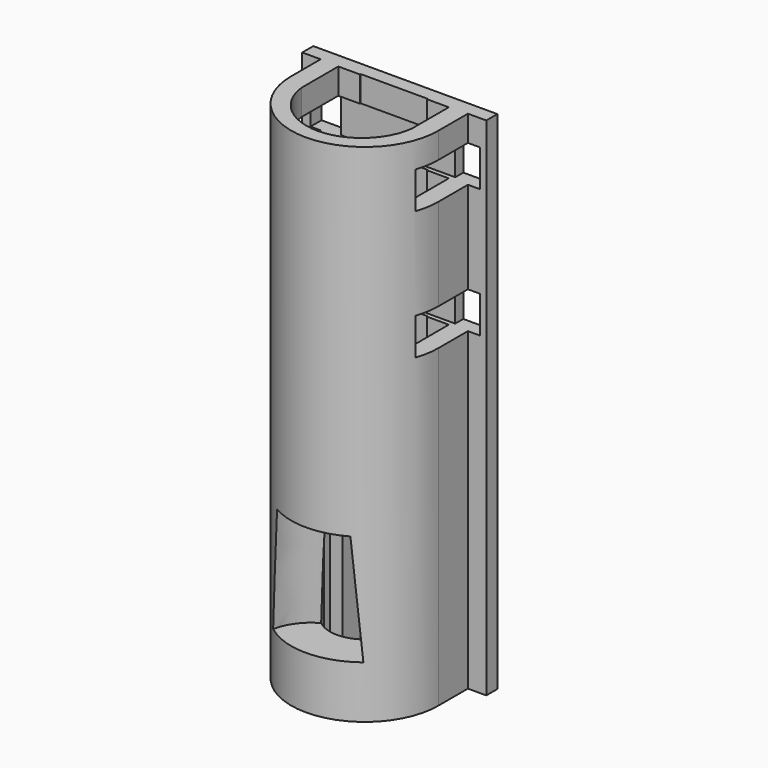
from build123d import *

# Parameters (mm, degrees)
BOX005_W     = 3
BOX005_H     = 10
BOX005_DEPTH = 4
BOX004_W     = 3
BOX004_H     = 10
BOX004_DEPTH = 4
BOX003_W     = 3
BOX003_H     = 10
BOX003_DEPTH = 4
BOX002_W     = 3
BOX002_H     = 10
BOX002_DEPTH = 4
BOX001_W     = 18.4
BOX001_H     = 7
BOX001_DEPTH = 4
BOX_W        = 18.4
BOX_H        = 7
BOX_DEPTH    = 4
PAD001_DEPTH = 34
PAD_DEPTH    = 55


with BuildPart() as obj1:
    # Box005 → Box005 (new body)
    with BuildSketch(Plane(origin=(6.3, -2.6, 34.2), x_dir=(1, 0, 0), z_dir=(0, 0, 1))):
        with Locations((1.5, 5)):
            Rectangle(BOX005_W, BOX005_H)
    extrude(amount=BOX005_DEPTH)


with BuildPart() as obj2:
    # Box004 → Box004 (new body)
    with BuildSketch(Plane(origin=(-9.1, -2.6, 34.2), x_dir=(1, 0, 0), z_dir=(0, 0, 1))):
        with Locations((1.5, 5)):
            Rectangle(BOX004_W, BOX004_H)
    extrude(amount=BOX004_DEPTH)


with BuildPart() as obj3:
    # Box003 → Box003 (new body)
    with BuildSketch(Plane(origin=(6.3, -2.6, 48.2), x_dir=(1, 0, 0), z_dir=(0, 0, 1))):
        with Locations((1.5, 5)):
            Rectangle(BOX003_W, BOX003_H)
    extrude(amount=BOX003_DEPTH)


with BuildPart() as obj4:
    # Box002 → Box002 (new body)
    with BuildSketch(Plane(origin=(-9.1, -2.6, 48.2), x_dir=(1, 0, 0), z_dir=(0, 0, 1))):
        with Locations((1.5, 5)):
            Rectangle(BOX002_W, BOX002_H)
    extrude(amount=BOX002_DEPTH)


with BuildPart() as obj5:
    # Box001 → Box001 (new body)
    with BuildSketch(Plane(origin=(-9.1, -2.6, 34.2), x_dir=(1, 0, 0), z_dir=(0, 0, 1))):
        with Locations((9.2, 3.5)):
            Rectangle(BOX001_W, BOX001_H)
    extrude(amount=BOX001_DEPTH)


with BuildPart() as obj6:
    # Box → Box (new body)
    with BuildSketch(Plane(origin=(-9.1, -2.6, 48.2), x_dir=(1, 0, 0), z_dir=(0, 0, 1))):
        with Locations((9.2, 3.5)):
            Rectangle(BOX_W, BOX_H)
    extrude(amount=BOX_DEPTH)


with BuildPart() as kegel:
    # Cone → Cone (revolve)
    with BuildSketch(Plane(origin=(0, -7.3, 5.7), x_dir=(1, 0, 0), z_dir=(0, -1, 0))):
        Polygon((0, 0), (5, 0), (4, 12), (0, 12), align=None)
    revolve(axis=Axis((0, -7.3, 5.7), (0, 0, 1)))


with BuildPart() as body001:
    # Sketch001 → Pad001 (new body)
    with BuildSketch(Plane.XY):
        with BuildLine():
            Line((-6, -0.697355), (-6, 4.302645))
            Line((-6, 4.302645), (6, 4.302645))
            Line((6, 4.302645), (6, -0.697355))
            ThreePointArc((-6, -0.697355), (0, -6.040389), (6, -0.697355))
        make_face()
    extrude(amount=PAD001_DEPTH)


with BuildPart() as body001_1:
    # Body001 placement: moved
    add(body001.part.moved(Location((0, -0.4, 23.3))))


with BuildPart() as cut007:
    # Sketch → Pad (new body)
    with BuildSketch(Plane.XY):
        with BuildLine():
            ThreePointArc((-8, 0), (0, -8), (8, 0))
            Line((8, 4), (8, 0))
            Line((10, 4), (8, 4))
            Line((10, 5.5), (10, 4))
            Line((-10, 5.5), (10, 5.5))
            Line((-10, 4), (-10, 5.5))
            Line((-8, 4), (-10, 4))
            Line((-8, 0), (-8, 4))
        make_face()
        with BuildLine():
            ThreePointArc((-3.65, -1), (0, -3.784508), (3.65, -1))
            Line((3.65, -1), (5, -1))
            Line((5, 1.5), (5, -1))
            Line((3.65, 1.5), (5, 1.5))
            Line((3.65, 4), (3.65, 1.5))
            Line((-3.65, 4), (3.65, 4))
            Line((-3.65, 1.5), (-3.65, 4))
            Line((-3.65, 1.5), (-5, 1.5))
            Line((-5, 1.5), (-5, -1))
            Line((-3.65, -1), (-5, -1))
        make_face(mode=Mode.SUBTRACT)
    extrude(amount=PAD_DEPTH)

    # Cut: cut Body001
    add(body001_1.part, mode=Mode.SUBTRACT)

    # Cut001: cut Kegel
    add(kegel.part, mode=Mode.SUBTRACT)

    # Cut002: cut obj6
    add(obj6.part, mode=Mode.SUBTRACT)

    # Cut003: cut obj5
    add(obj5.part, mode=Mode.SUBTRACT)

    # Cut004: cut obj4
    add(obj4.part, mode=Mode.SUBTRACT)

    # Cut005: cut obj3
    add(obj3.part, mode=Mode.SUBTRACT)

    # Cut006: cut obj2
    add(obj2.part, mode=Mode.SUBTRACT)

    # Cut007: cut obj1
    add(obj1.part, mode=Mode.SUBTRACT)


solid = cut007.part
